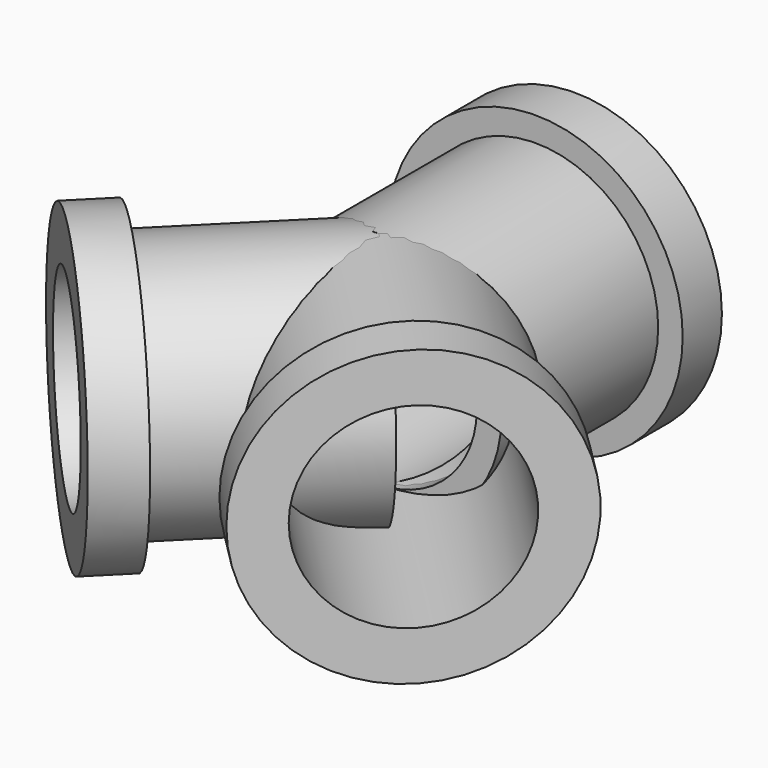
from build123d import *

# Parameters (mm, degrees)
F4_ANGLE = 135
F5_ANGLE = 225


with BuildPart() as f2:
    # F0 (on Top) → F2 (revolve)
    with BuildSketch(Plane.XY):
        Polygon((2, 5), (2, 0), (2.5, 0), (2.5, 4), (3, 4), (3, 5), align=None)
    revolve(axis=Axis((0, 14.250474, 0), (0, 1, 0)))


with BuildPart() as f4_1:
    # F4: copy of F2
    add(f2.part.rotate(Axis((0, 0, 7.795555), (0, 0, 1)), F4_ANGLE))


with BuildPart() as f5_1:
    # F5: copy of F2
    add(f2.part.rotate(Axis((0, 0, 7.795555), (0, 0, 1)), F5_ANGLE))


solid = Compound([f2.part, f4_1.part, f5_1.part])
